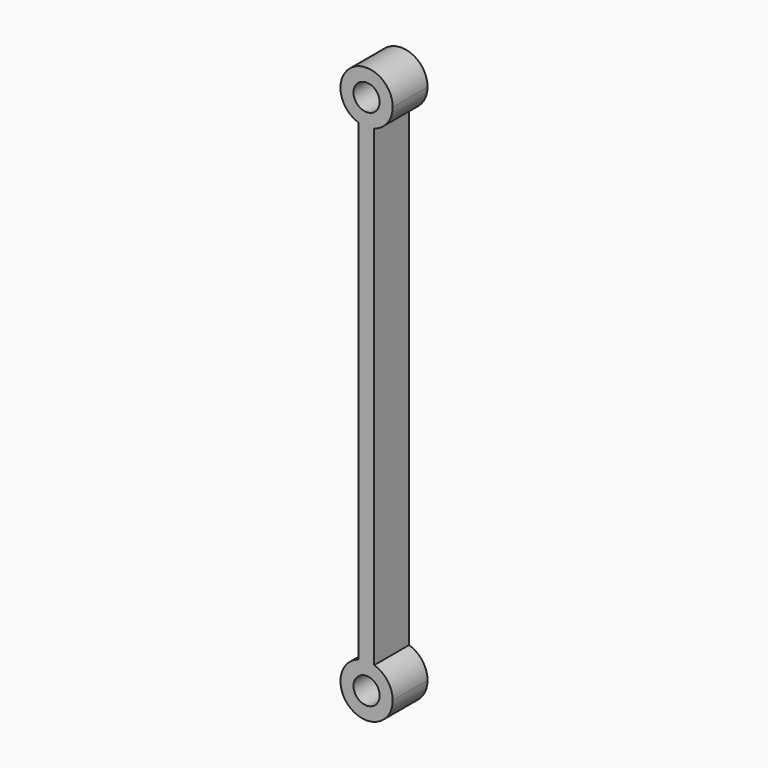
from build123d import *

# Parameters (mm, degrees)
F0_R     = 7.5
F1_DEPTH = 25


with BuildPart() as f1:
    # F0 (on Front) → F1 (new body)
    with BuildSketch(Plane.XZ):
        with BuildLine():
            ThreePointArc((-46.560155, 229.057786), (-38.886033, 234.479709), (-35.943053, 243.403176))
            ThreePointArc((-35.943053, 243.403176), (-59.71386, 255.571699), (-55.686112, 229.172808))
            ThreePointArc((-55.686112, 229.172808), (-51.132094, 228.404367), (-46.560155, 229.057786))
        make_face()
        with Locations((-50.943053, 243.403176)):
            Circle(F0_R, mode=Mode.SUBTRACT)
        with BuildLine():
            ThreePointArc((-46.560155, 229.057786), (-51.132094, 228.404367), (-55.686112, 229.172808))
            Line((-55.686112, 229.172808), (-55.686112, -42.366455))
            ThreePointArc((-55.686112, -42.366455), (-51.132094, -41.598015), (-46.560155, -42.251434))
            Line((-46.560155, -42.251434), (-46.560155, 229.057786))
        make_face()
        with BuildLine():
            ThreePointArc((-46.560155, -42.251434), (-51.132094, -41.598015), (-55.686112, -42.366455))
            ThreePointArc((-55.686112, -42.366455), (-59.71386, -68.765347), (-35.943053, -56.596824))
            ThreePointArc((-35.943053, -56.596824), (-38.886033, -47.673356), (-46.560155, -42.251434))
        make_face()
        with Locations((-50.943053, -56.596824)):
            Circle(F0_R, mode=Mode.SUBTRACT)
    extrude(amount=F1_DEPTH)


solid = f1.part
